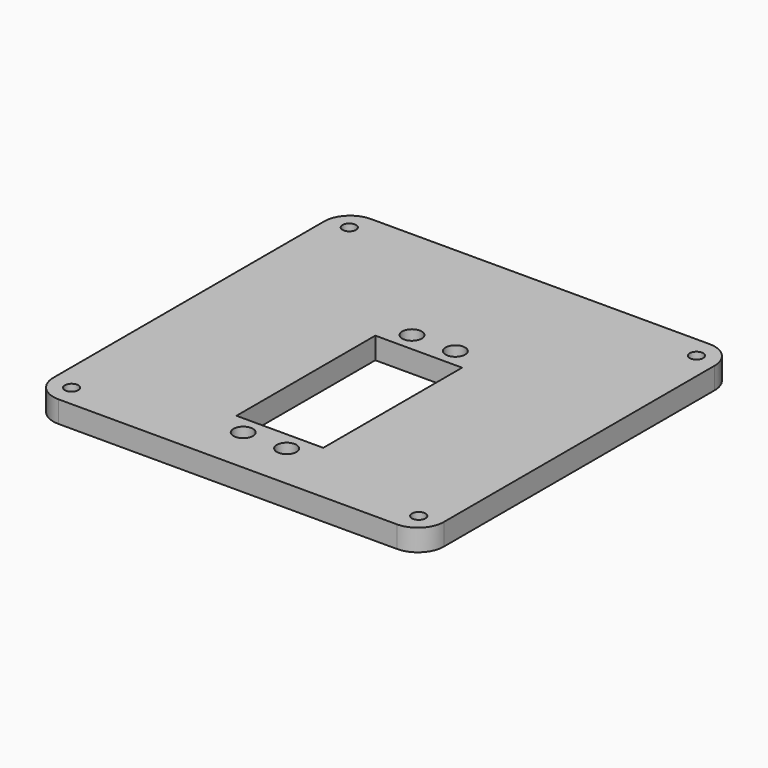
from build123d import *

# Parameters (mm, degrees)
SKETCH_W        = 90
SKETCH_H        = 90
PAD_DEPTH       = 5
SKETCH001_R     = 1.55
POCKET_DEPTH    = 5
FILLET_R        = 6
SKETCH002_W     = 20
SKETCH002_H     = 40
POCKET001_DEPTH = 5
SKETCH003_R     = 2.25
POCKET002_DEPTH = 5


with BuildPart() as part:
    # Sketch → Pad (new body)
    with BuildSketch(Plane.XY):
        Rectangle(SKETCH_W, SKETCH_H)
    extrude(amount=PAD_DEPTH)

    # Sketch001 (on Face6 of Pad) → Pocket (cut)
    with BuildSketch(Plane.XY.offset(5)):
        with Locations((-40, 40)):
            Circle(SKETCH001_R)
        with Locations((40, 40)):
            Circle(SKETCH001_R)
        with Locations((40, -40)):
            Circle(SKETCH001_R)
        with Locations((-40, -40)):
            Circle(SKETCH001_R)
    extrude(amount=-POCKET_DEPTH, mode=Mode.SUBTRACT)

    # Fillet
    fillet_edges = [part.edges().sort_by_distance(p)[0] for p in [
        (-45, -45, 2.5),
        (45, -45, 2.5),
        (45, 45, 2.5),
        (-45, 45, 2.5),
    ]]
    fillet(fillet_edges, radius=FILLET_R)

    # Sketch002 (on Face5 of Fillet) → Pocket001 (cut)
    with BuildSketch(Plane.XY.offset(5)):
        with Locations((0, -10)):
            Rectangle(SKETCH002_W, SKETCH002_H)
    extrude(amount=-POCKET001_DEPTH, mode=Mode.SUBTRACT)

    # Sketch003 (on Face5 of Pocket001) → Pocket002 (cut)
    with BuildSketch(Plane.XY.offset(5)):
        with Locations((-5, 14.3)):
            Circle(SKETCH003_R)
        with Locations((5, 14.3)):
            Circle(SKETCH003_R)
        with Locations((-5, -34.3)):
            Circle(SKETCH003_R)
        with Locations((5, -34.3)):
            Circle(SKETCH003_R)
    extrude(amount=-POCKET002_DEPTH, mode=Mode.SUBTRACT)


solid = part.part
